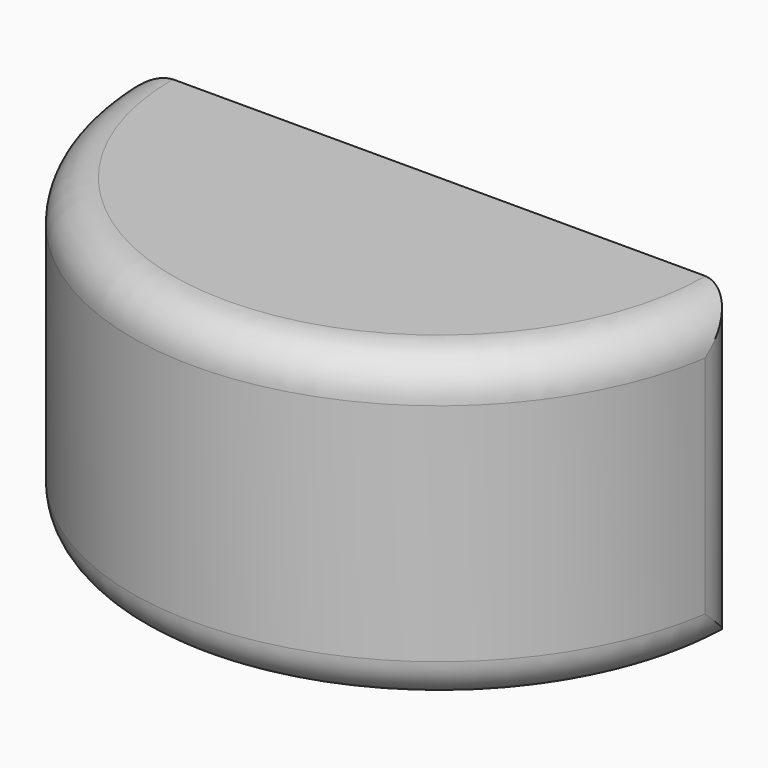
from build123d import *

# Parameters (mm, degrees)
F1_DEPTH = 38.1
F2_R     = 5.08


with BuildPart() as f1:
    # F0 (on Top) → F1 (new body)
    with BuildSketch(Plane.XY):
        with BuildLine():
            ThreePointArc((-38.1, 0), (0, -38.1), (38.1, 0))
            Line((38.1, 0), (-38.1, 0))
        make_face()
    extrude(amount=F1_DEPTH)

    # F2
    f2_edges = [f1.edges().sort_by_distance(p)[0] for p in [
        (0, -38.1, 38.1),
        (-38.1, 0, 19.05),
        (38.1, 0, 19.05),
        (0, -38.1, 0),
    ]]
    fillet(f2_edges, radius=F2_R)


solid = f1.part
